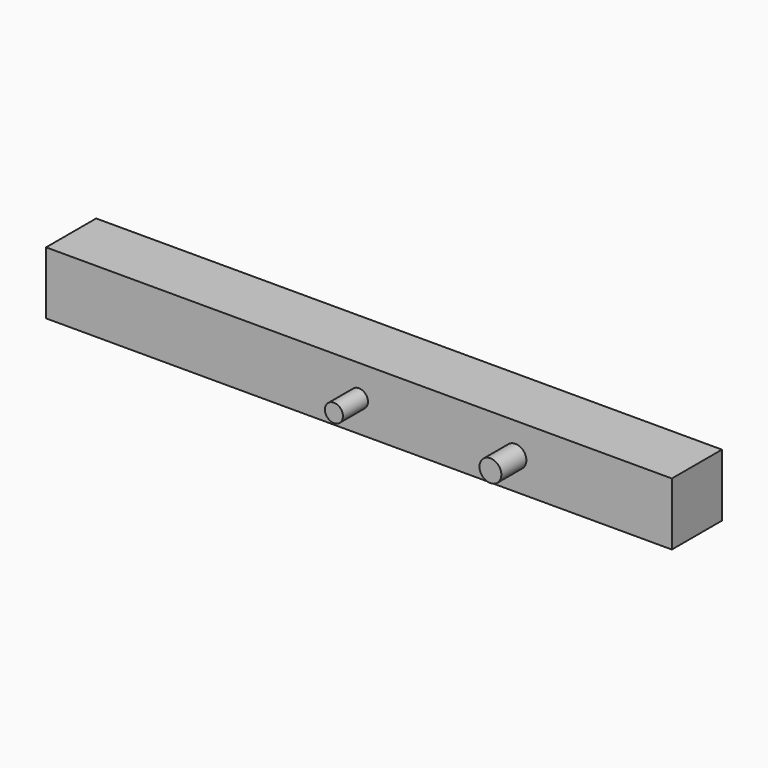
from build123d import *

# Parameters (mm, degrees)
F0_R     = 5.75
F0_R_2   = 7
F1_DEPTH = 60
F0_W     = 400
F0_H     = 40
F2_DEPTH = 40


with BuildPart() as f1:
    # F0 (on Front) → F1 (new body)
    with BuildSketch(Plane.XZ):
        Circle(F0_R)
        with Locations((100, 0)):
            Circle(F0_R_2)
    extrude(amount=F1_DEPTH)


with BuildPart() as f2:
    # F0 (on Front) → F2 (new body)
    with BuildSketch(Plane.XZ):
        Rectangle(F0_W, F0_H)
        Circle(F0_R, mode=Mode.SUBTRACT)
        with Locations((100, 0)):
            Circle(F0_R_2, mode=Mode.SUBTRACT)
    extrude(amount=F2_DEPTH)


solid = Compound([f1.part, f2.part])
